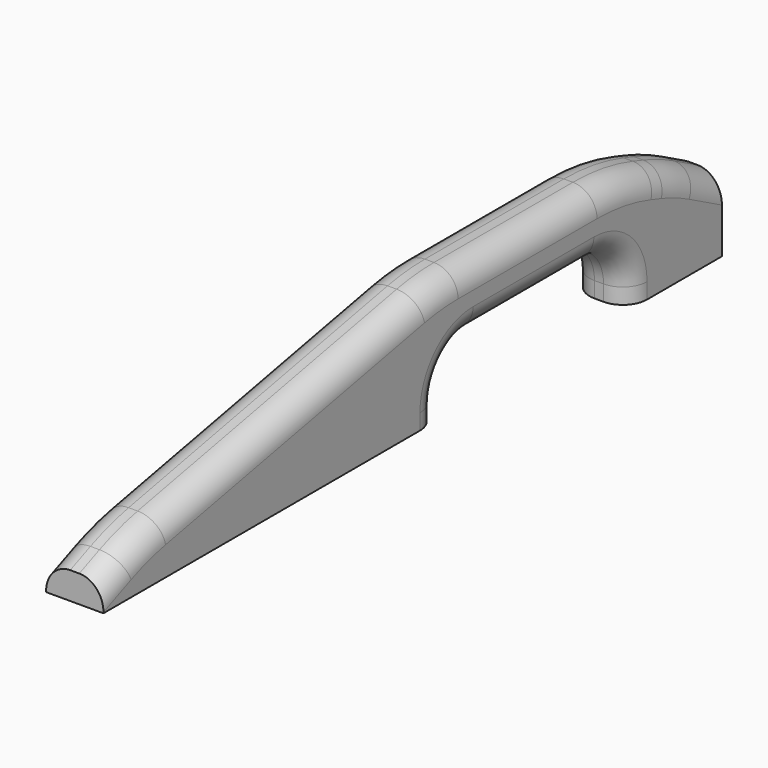
from build123d import *

# Parameters (mm, degrees)
F1_DEPTH      = 15.08125
F1_DEPTH_BACK = 15.08125
F2_R          = 127
F3_R          = 22.225
F4_R          = 12.7


with BuildPart() as f1:
    # F0 (on Right) → F1 (new body, two sides)
    with BuildSketch(Plane.YZ) as f1_sk:
        Polygon((0, 14.2875), (0, 0), (220.6625, 0), (220.6625, 30.48), (344.4875, 30.48), (344.4875, 0), (406.4, 0), (406.4, 38.1), (381, 51.60542), (344.4875, 63.5), (220.6625, 63.5), (25.4, 25.06916), align=None)
    extrude(amount=F1_DEPTH)
    extrude(f1_sk.sketch, amount=-F1_DEPTH_BACK)

    # F2
    f2_edges = [f1.edges().sort_by_distance(p)[0] for p in [
        (0, 25.4, 25.06916),
        (0, 381, 51.60542),
        (0, 344.4875, 63.5),
        (0, 220.6625, 63.5),
    ]]
    fillet(f2_edges, radius=F2_R)

    # F3
    f3_edges = [f1.edges().sort_by_distance(p)[0] for p in [
        (0, 220.6625, 30.48),
        (0, 344.4875, 30.48),
    ]]
    fillet(f3_edges, radius=F3_R)

    # F4
    f4_edges = [f1.edges().sort_by_distance(p)[0] for p in [
        (15.08125, 282.575, 30.48),
        (15.08125, 278.682185, 63.5),
        (-15.08125, 278.682185, 63.5),
        (-15.08125, 282.575, 30.48),
    ]]
    fillet(f4_edges, radius=F4_R)


solid = f1.part
